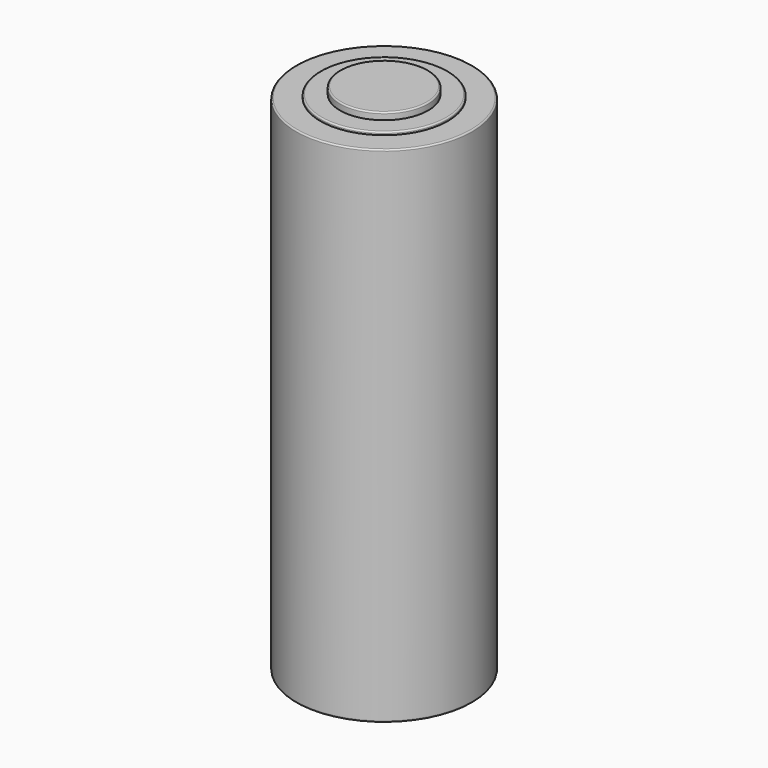
from build123d import *

# Parameters (mm, degrees)
F0_W = 5.566528
F0_H = 0.37384


with BuildPart() as f1:
    # F0 (on Front) → F1 (revolve)
    with BuildSketch(Plane.XZ):
        with BuildLine():
            Line((0, 64.957067), (0, 64.06147))
            Line((0, 64.06147), (5.566528, 64.06147))
            Line((5.566528, 64.06147), (5.566528, 64.776555))
            ThreePointArc((5.566528, 64.776555), (5.513657, 64.904197), (5.386015, 64.957067))
            Line((5.386015, 64.957067), (0, 64.957067))
        make_face()
        with Locations((2.783264, 63.87455)):
            Rectangle(F0_W, F0_H)
        with BuildLine():
            Line((5.566528, 64.06147), (5.566528, 63.68763))
            Line((5.566528, 63.68763), (8.045916, 63.68763))
            Line((8.045916, 63.68763), (8.045916, 63.880958))
            ThreePointArc((8.045916, 63.880958), (7.993046, 64.008599), (7.865404, 64.06147))
            Line((7.865404, 64.06147), (5.566528, 64.06147))
        make_face()
        with BuildLine():
            Line((0, 63.68763), (0, 0))
            Line((0, 0), (9.809786, 0))
            Line((9.809786, 0), (10.952543, 0))
            ThreePointArc((10.952543, 0), (11.080184, 0.052871), (11.133055, 0.180512))
            Line((11.133055, 0.180512), (11.133055, 63.507118))
            ThreePointArc((11.133055, 63.507118), (11.080184, 63.634759), (10.952543, 63.68763))
            Line((10.952543, 63.68763), (8.045916, 63.68763))
            Line((8.045916, 63.68763), (5.566528, 63.68763))
            Line((5.566528, 63.68763), (0, 63.68763))
        make_face()
        with BuildLine():
            Line((9.809786, 0), (0, 0))
            Line((0, 0), (0, -0.365171))
            Line((0, -0.365171), (9.629273, -0.365171))
            ThreePointArc((9.629273, -0.365171), (9.756915, -0.3123), (9.809786, -0.184658))
            Line((9.809786, -0.184658), (9.809786, 0))
        make_face()
    revolve(axis=Axis((0, 0, 31.843815), (0, 0, 1)))


solid = f1.part
